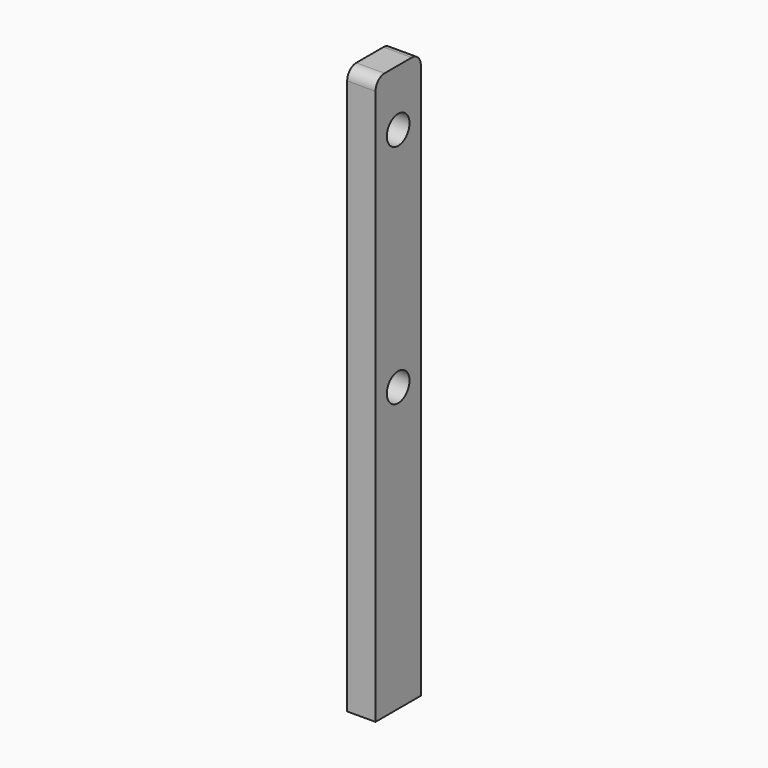
from build123d import *

# Parameters (mm, degrees)
F0_R     = 2.5
F1_DEPTH = 5


with BuildPart() as f1:
    # F0 (on Right) → F1 (new body)
    with BuildSketch(Plane.YZ):
        with BuildLine():
            Line((-41.018605, 2.858439), (-31.018605, 2.858439))
            Line((-31.018605, 2.858439), (-31.018605, 100.858439))
            ThreePointArc((-31.018605, 100.858439), (-31.604392, 102.272653), (-33.018605, 102.858439))
            Line((-33.018605, 102.858439), (-39.018605, 102.858439))
            ThreePointArc((-39.018605, 102.858439), (-40.432819, 102.272653), (-41.018605, 100.858439))
            Line((-41.018605, 100.858439), (-41.018605, 2.858439))
        make_face()
        with Locations((-36.018605, 92.858439)):
            Circle(F0_R, mode=Mode.SUBTRACT)
        with Locations((-36.018605, 52.858439)):
            Circle(F0_R, mode=Mode.SUBTRACT)
    extrude(amount=F1_DEPTH)


solid = f1.part
